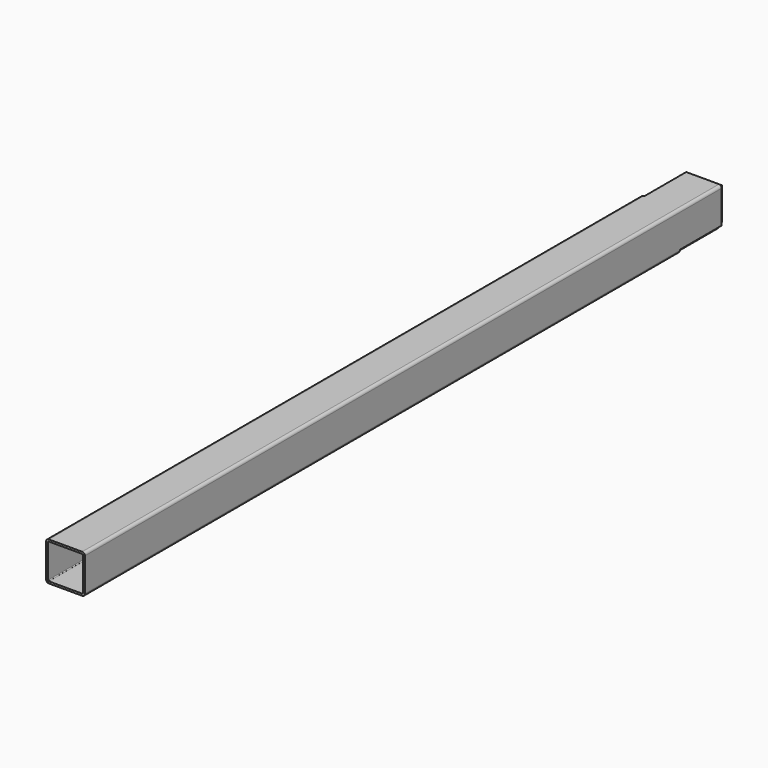
from build123d import *

# Parameters (mm, degrees)
F1_DEPTH = 1025
F2_W     = 93
F2_H     = 93
F3_DEPTH = 5
F5_DEPTH = 135


with BuildPart() as f1:
    # F0 (on Front) → F1 (new body, symmetric)
    with BuildSketch(Plane.XZ):
        with BuildLine():
            ThreePointArc((50, 43), (47.9497474683, 47.9497474683), (43, 50))
            Line((43, 50), (-43, 50))
            ThreePointArc((-43, 50), (-47.9497474683, 47.9497474683), (-50, 43))
            Line((-50, 43), (-50, -43))
            ThreePointArc((-50, -43), (-47.9497474683, -47.9497474683), (-43, -50))
            Line((-43, -50), (43, -50))
            ThreePointArc((43, -50), (47.9497474683, -47.9497474683), (50, -43))
            Line((50, -43), (50, 43))
        make_face()
        with BuildLine():
            ThreePointArc((45, -43), (44.4142135624, -44.4142135624), (43, -45))
            Line((43, -45), (-43, -45))
            ThreePointArc((-43, -45), (-44.4142135624, -44.4142135624), (-45, -43))
            Line((-45, -43), (-45, 43))
            ThreePointArc((-45, 43), (-44.4142135624, 44.4142135624), (-43, 45))
            Line((-43, 45), (43, 45))
            ThreePointArc((43, 45), (44.4142135624, 44.4142135624), (45, 43))
            Line((45, 43), (45, -43))
        make_face(mode=Mode.SUBTRACT)
    extrude(amount=F1_DEPTH, both=True)


with BuildPart() as f3:
    # F2 (on face) → F3 (new body)
    with BuildSketch(Plane(origin=(0, 1025, 0), x_dir=(-1, 0, 0), z_dir=(0, 1, 0))):
        Rectangle(F2_W, F2_H)
    extrude(amount=F3_DEPTH)


with BuildPart() as f5_tool:
    # F4 (on face) → F5 (new body, symmetric)
    with BuildSketch(Plane(origin=(0, 1025, 0), x_dir=(-1, 0, 0), z_dir=(0, 1, 0))):
        Polygon((-48.7903679019, -57.2756492761), (57.2756492761, 48.7903679019), (48.7903679019, 57.2756492761), (-57.2756492761, -48.7903679019), align=None)
    extrude(amount=F5_DEPTH, both=True)


with BuildPart() as f1_1:
    add(f1.part)

    # F5: cut by f5_tool
    add(f5_tool.part, mode=Mode.SUBTRACT)


with BuildPart() as f3_1:
    add(f3.part)

    # F5: cut by f5_tool
    add(f5_tool.part, mode=Mode.SUBTRACT)


solid = Compound([f1_1.part, f3_1.part])
